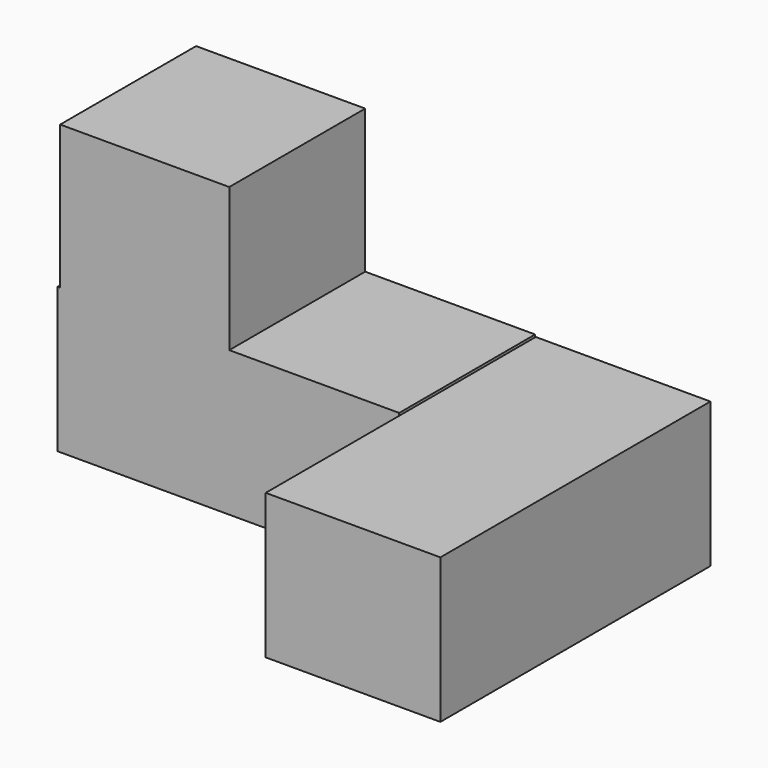
from build123d import *

# Parameters (mm, degrees)
F0_W      = 48.6852861941
F0_H      = 53.710911423
F0_W_2    = 54.6446330845
F0_W_3    = 52.1280243993
F0_H_2    = 53.485147655
F1_DEPTH  = 34.036
F2_W      = 53.8875311613
F2_H      = 53.710911423
F3_DEPTH  = 37.338
F6_W      = 34.9105373025
F6_H      = 33.3538427949
F6_H_2    = 34.1114252806
F7_DEPTH  = 28.956
F5_W      = 34.3135856092
F5_H      = 33.9616201818
F9_W      = 33.8014625013
F9_H      = 33.9616201818
F10_DEPTH = 28.702


with BuildPart() as f1:
    # F0 (on Top) → F1 (new body)
    with BuildSketch(Plane.XY):
        with Locations((-65.8202823251, 26.8554557115)):
            Rectangle(F0_W, F0_H)
        with Locations((-14.1553226858, 26.8554557115)):
            Rectangle(F0_W_2, F0_H)
        with Locations((39.2310060561, 26.8554557115)):
            Rectangle(F0_W_3, F0_H)
        with Locations((39.2310060561, -26.7425738275)):
            Rectangle(F0_W_3, F0_H_2)
    extrude(amount=F1_DEPTH)

    # F2 (on face) → F3 (join)
    with BuildSketch(Plane.XY.offset(34.036)):
        with Locations((-63.2191598415, 26.8554557115)):
            Rectangle(F2_W, F2_H)
    extrude(amount=F3_DEPTH)


with BuildPart() as f7:
    # F6 (on Top) → F7 (new body)
    with BuildSketch(Plane.XY):
        with Locations((52.0283095539, 16.6769213974)):
            Rectangle(F6_W, F6_H)
        with Locations((52.0283095539, -17.0557126403)):
            Rectangle(F6_W, F6_H_2)
    extrude(amount=F7_DEPTH)


with BuildPart() as f7b:
    # F5 (on Top) → F7, piece 2 (new body)
    with BuildSketch(Plane.XY):
        with Locations((-17.1567928046, 16.9808100909)):
            Rectangle(F5_W, F5_H)
        Polygon((0, 33.9616201818), (0, 0), (33.963445574, 0), (33.963445574, 33.963445574), (0, 33.963445574), align=None)
    extrude(amount=F7_DEPTH)

    # F9 (on face) → F10 (join)
    with BuildSketch(Plane.XY.offset(28.956)):
        with Locations((-16.9007312506, 16.9808100909)):
            Rectangle(F9_W, F9_H)
    extrude(amount=F10_DEPTH)


solid = Compound([f7.part, f7b.part])
